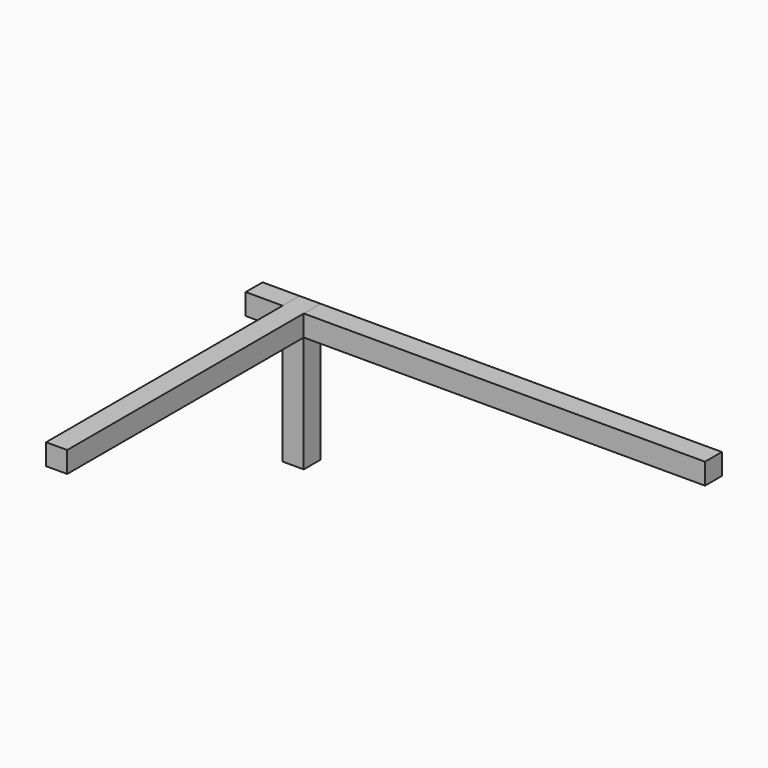
from build123d import *

# Parameters (mm, degrees)
F1_DEPTH = 40
F0_W     = 760
F0_H     = 40
F2_DEPTH = 40
F3_W     = 40
F3_H     = 40
F4_DEPTH = 220
F5_W     = 40
F5_H     = 40
F6_DEPTH = 70


with BuildPart() as f1:
    # F0 (on Top) → F1 (new body)
    with BuildSketch(Plane.XY):
        Polygon((-380, -260), (-380, 260), (-380, 300), (-420, 300), (-420, -300), (-380, -300), align=None)
    extrude(amount=F1_DEPTH)


with BuildPart() as f2:
    # F0 (on Top) → F2 (new body, through all)
    with BuildSketch(Plane.XY):
        with Locations((0, 280)):
            Rectangle(F0_W, F0_H)
    extrude(amount=F2_DEPTH)


with BuildPart() as f4:
    # F3 (on face) → F4 (new body)
    with BuildSketch(Plane(origin=(0, 0, 0), x_dir=(1, 0, 0), z_dir=(0, 0, -1))):
        with Locations((-400, -280)):
            Rectangle(F3_W, F3_H)
    extrude(amount=F4_DEPTH)


with BuildPart() as f6:
    # F5 (on face) → F6 (new body)
    with BuildSketch(Plane(origin=(-420, 0, 0), x_dir=(0, -1, 0), z_dir=(-1, 0, 0))):
        with Locations((-280, 20)):
            Rectangle(F5_W, F5_H)
    extrude(amount=F6_DEPTH)


solid = Compound([f1.part, f2.part, f4.part, f6.part])
